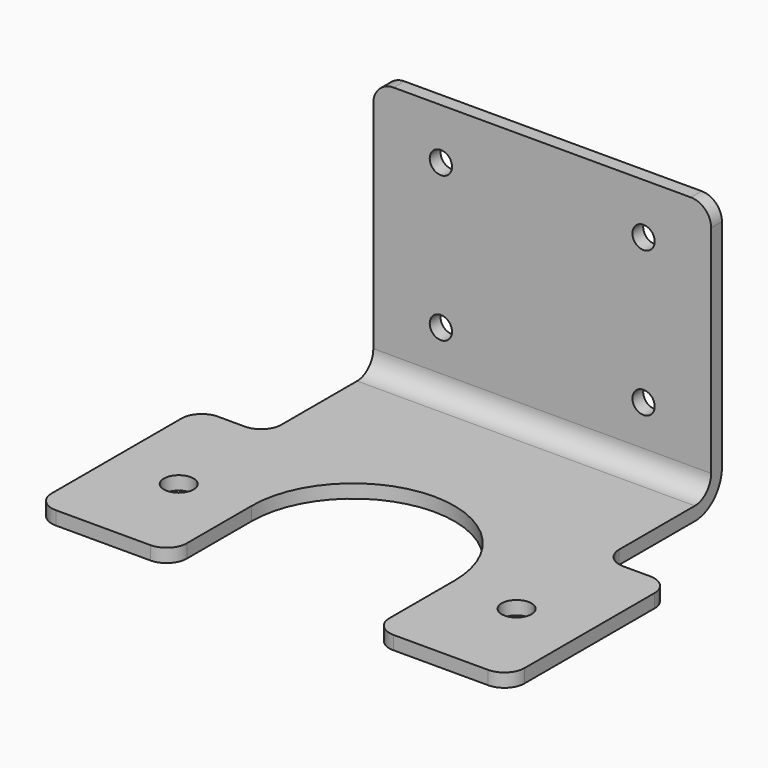
from build123d import *

# Parameters (mm, degrees)
F1_DEPTH = 25
F3_D     = 3.3
F4_W     = 10
F4_H     = 30
F5_DEPTH = 2
F6_D     = 4.4
F7_DEPTH = 2
F8_R     = 3


with BuildPart() as f1:
    # F0 (on Right) → F1 (new body, symmetric)
    with BuildSketch(Plane.YZ):
        with BuildLine():
            ThreePointArc((-5, 0), (-1.4644660941, 1.4644660941), (0, 5))
            Line((0, 5), (0, 40))
            Line((0, 40), (-2, 40))
            Line((-2, 40), (-2, 5))
            ThreePointArc((-2, 5), (-2.8786796564, 2.8786796564), (-5, 2))
            Line((-5, 2), (-52, 2))
            Line((-52, 2), (-52, 0))
            Line((-52, 0), (-5, 0))
        make_face()
    extrude(amount=F1_DEPTH, both=True)

    # F3 (through all)
    with Locations(Plane.XZ.offset(2)):
        with Locations((-15, 32.5), (-15, 11), (15, 11), (15, 32.5)):
            Hole(F3_D / 2)

    # F4 (on face) → F5 (join, through all)
    with BuildSketch(Plane.XY.offset(2)):
        with Locations((-30, -37)):
            Rectangle(F4_W, F4_H)
        with Locations((30, -37)):
            Rectangle(F4_W, F4_H)
    extrude(amount=-F5_DEPTH)

    # F6 (through all)
    with Locations(Plane.XY.offset(2)):
        with Locations((-25, -38), (25, -38)):
            Hole(F6_D / 2)

    # F4 (on face) → F7 (cut, through all)
    with BuildSketch(Plane.XY.offset(2)):
        with BuildLine():
            ThreePointArc((15, -37), (0, -22), (-15, -37))
            ThreePointArc((-15, -37), (-10.6066017178, -47.6066017178), (0, -52))
            ThreePointArc((0, -52), (10.6066017178, -47.6066017178), (15, -37))
        make_face()
        with BuildLine():
            Line((-15, -37), (-15, -52))
            Line((-15, -52), (0, -52))
            ThreePointArc((0, -52), (-10.6066017178, -47.6066017178), (-15, -37))
        make_face()
        with BuildLine():
            ThreePointArc((15, -37), (10.6066017178, -47.6066017178), (0, -52))
            Line((0, -52), (15, -52))
            Line((15, -52), (15, -37))
        make_face()
    extrude(amount=-F7_DEPTH, mode=Mode.SUBTRACT)

    # F8
    f8_edges = [f1.edges().sort_by_distance(p)[0] for p in [
        (-15, -52, 1),
        (-35, -52, 1),
        (-35, -22, 1),
        (-25, -22, 1),
        (-25, -1, 40),
        (15, -52, 1),
        (35, -52, 1),
        (35, -22, 1),
        (25, -22, 1),
        (25, -1, 40),
    ]]
    fillet(f8_edges, radius=F8_R)


solid = f1.part
